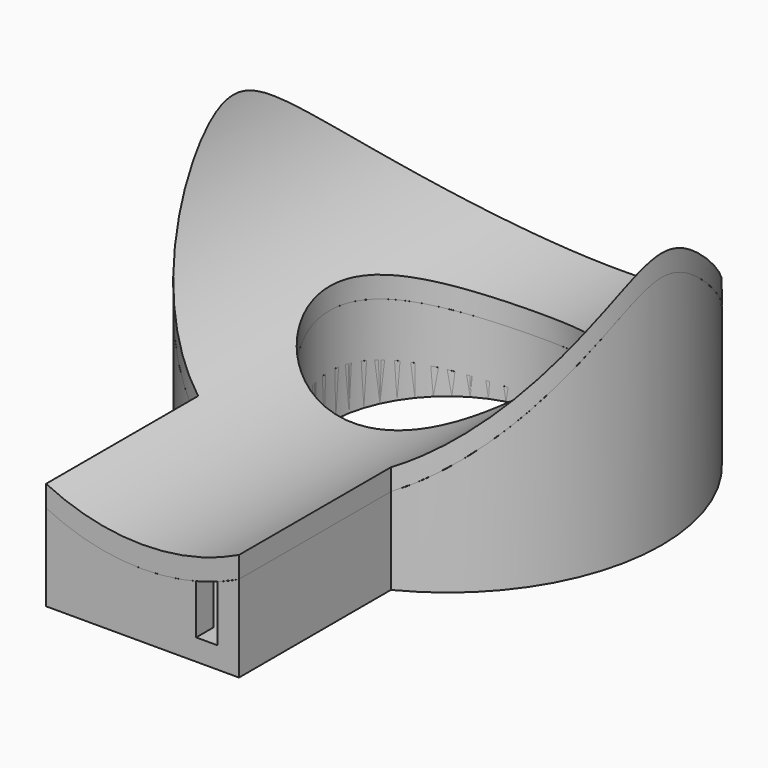
from build123d import *

# Parameters (mm, degrees)
SKETCH_R             = 20
PAD_DEPTH            = 30
SKETCH001_R          = 18
POCKET_DEPTH         = 40
POCKET001_DEPTH      = 20.001
POCKET001_DEPTH_BACK = 20.001
SKETCH014_W          = 14
SKETCH014_H          = 7.569522
POCKET010_DEPTH      = 6
SKETCH005_R          = 13
PAD002_DEPTH         = 30
POCKET003_DEPTH      = 13.001
POCKET003_DEPTH_BACK = 13.001
SKETCH007_R          = 11
POCKET004_DEPTH      = 10.650133
SKETCH003_R          = 18
PAD001_DEPTH         = 30
POCKET002_DEPTH      = 18.001
POCKET002_DEPTH_BACK = 18.001
SKETCH008_R          = 11
POCKET005_DEPTH      = 11.690292
SKETCH009_W          = 18
SKETCH009_H          = 20
PAD003_DEPTH         = 9
SKETCH010_W          = 14
SKETCH010_H          = 17
POCKET006_DEPTH      = 7
POCKET007_DEPTH      = 21
SKETCH012_W          = 14
SKETCH012_H          = 7.424547
POCKET008_DEPTH      = 25
SKETCH013_R          = 18
POCKET009_DEPTH      = 7
SKETCH021_W          = 2
SKETCH021_H          = 8
POCKET015_DEPTH      = 5
PAD004_DEPTH         = 36
POCKET011_DEPTH      = 36
SKETCH017_R          = 11
POCKET012_DEPTH      = 24.001
POCKET013_DEPTH      = 25
SKETCH019_W          = 20
SKETCH019_H          = 5
POCKET014_DEPTH      = 15
PAD005_DEPTH         = 1


with BuildPart() as base_cylinder_external:
    # Sketch → Pad (new body)
    with BuildSketch(Plane.XY):
        Circle(SKETCH_R)
    extrude(amount=PAD_DEPTH)

    # Sketch001 → Pocket (cut)
    with BuildSketch(Plane.XY):
        Circle(SKETCH001_R)
    extrude(amount=POCKET_DEPTH, mode=Mode.SUBTRACT)

    # Sketch002 → Pocket001 (cut, two sides)
    with BuildSketch(Plane.XZ) as pocket001_sk:
        with BuildLine():
            Line((-20, 22), (-20, 32))
            Line((-20, 32), (20, 32))
            Line((20, 32), (20, 22))
            ThreePointArc((-20, 22), (0, 6), (20, 22))
        make_face()
    extrude(amount=-POCKET001_DEPTH, mode=Mode.SUBTRACT)
    extrude(pocket001_sk.sketch, amount=POCKET001_DEPTH_BACK, mode=Mode.SUBTRACT)

    # Sketch014 → Pocket010 (cut)
    with BuildSketch(Plane.XZ.offset(22)):
        with Locations((0, 5.784761)):
            Rectangle(SKETCH014_W, SKETCH014_H)
    extrude(amount=-POCKET010_DEPTH, mode=Mode.SUBTRACT)


with BuildPart() as base_cylinder_internal:
    # Sketch005 → Pad002 (new body)
    with BuildSketch(Plane.XY):
        Circle(SKETCH005_R)
    extrude(amount=PAD002_DEPTH)

    # Sketch006 → Pocket003 (cut, two sides)
    with BuildSketch(Plane.XZ) as pocket003_sk:
        with BuildLine():
            Line((-20, 22), (-20, 32))
            Line((-20, 32), (20, 32))
            Line((20, 32), (20, 22))
            ThreePointArc((-20, 22), (0, 6), (20, 22))
        make_face()
    extrude(amount=-POCKET003_DEPTH, mode=Mode.SUBTRACT)
    extrude(pocket003_sk.sketch, amount=POCKET003_DEPTH_BACK, mode=Mode.SUBTRACT)

    # Sketch007 → Pocket004 (cut, through all)
    with BuildSketch(Plane.XY):
        Circle(SKETCH007_R)
    extrude(amount=POCKET004_DEPTH, mode=Mode.SUBTRACT)


with BuildPart() as base_cylinder_intermediate:
    # Sketch003 → Pad001 (new body)
    with BuildSketch(Plane.XY):
        Circle(SKETCH003_R)
    extrude(amount=PAD001_DEPTH)

    # Sketch004 → Pocket002 (cut, two sides)
    with BuildSketch(Plane.XZ) as pocket002_sk:
        with BuildLine():
            Line((-20, 17), (-20, 32))
            Line((-20, 32), (20, 32))
            Line((20, 32), (20, 17))
            ThreePointArc((-20, 17), (0, 1), (20, 17))
        make_face()
    extrude(amount=-POCKET002_DEPTH, mode=Mode.SUBTRACT)
    extrude(pocket002_sk.sketch, amount=POCKET002_DEPTH_BACK, mode=Mode.SUBTRACT)

    # Sketch008 → Pocket005 (cut, through all)
    with BuildSketch(Plane.XY):
        Circle(SKETCH008_R)
    extrude(amount=POCKET005_DEPTH, mode=Mode.SUBTRACT)


with BuildPart() as base_box:
    # Sketch009 → Pad003 (new body)
    with BuildSketch(Plane.XY):
        with Locations((0, -25.588457)):
            Rectangle(SKETCH009_W, SKETCH009_H)
    extrude(amount=PAD003_DEPTH)

    # Sketch010 → Pocket006 (cut)
    with BuildSketch(Plane.XY.offset(2)):
        with Locations((0, -25.083124)):
            Rectangle(SKETCH010_W, SKETCH010_H)
    extrude(amount=POCKET006_DEPTH, mode=Mode.SUBTRACT)

    # Sketch011 → Pocket007 (cut)
    with BuildSketch(Plane.XZ.offset(15)):
        with BuildLine():
            Line((-20, 22), (-20, 32))
            Line((-20, 32), (20, 32))
            Line((20, 32), (20, 22))
            ThreePointArc((-20, 22), (0, 6), (20, 22))
        make_face()
    extrude(amount=POCKET007_DEPTH, mode=Mode.SUBTRACT)

    # Sketch012 → Pocket008 (cut)
    with BuildSketch(Plane.XZ.offset(33)):
        with Locations((0, 5.712274)):
            Rectangle(SKETCH012_W, SKETCH012_H)
    extrude(amount=-POCKET008_DEPTH, mode=Mode.SUBTRACT)

    # Sketch013 → Pocket009 (cut)
    with BuildSketch(Plane.XY.offset(9)):
        Circle(SKETCH013_R)
    extrude(amount=-POCKET009_DEPTH, mode=Mode.SUBTRACT)

    # Sketch021 → Pocket015 (cut)
    with BuildSketch(Plane.XZ.offset(37)):
        with Locations((6, 6)):
            Rectangle(SKETCH021_W, SKETCH021_H)
    extrude(amount=-POCKET015_DEPTH, mode=Mode.SUBTRACT)


with BuildPart() as top:
    # Sketch015 → Pad004 (new body, symmetric)
    with BuildSketch(Plane.XZ):
        with BuildLine():
            Line((-20, 22), (-20, 32))
            Line((-20, 32), (20, 32))
            Line((20, 32), (20, 22))
            ThreePointArc((-20, 22), (0, 6), (20, 22))
        make_face()
    extrude(amount=PAD004_DEPTH, both=True)

    # Sketch016 → Pocket011 (cut, symmetric)
    with BuildSketch(Plane.XZ):
        with BuildLine():
            Line((-20, 24), (-20, 34))
            Line((-20, 34), (20, 34))
            Line((20, 34), (20, 24))
            ThreePointArc((-20, 24), (0, 8), (20, 24))
        make_face()
    extrude(amount=POCKET011_DEPTH, both=True, mode=Mode.SUBTRACT)

    # Sketch017 → Pocket012 (cut, through all)
    with BuildSketch(Plane.XY):
        Circle(SKETCH017_R)
    extrude(amount=POCKET012_DEPTH, mode=Mode.SUBTRACT)

    # Sketch018 → Pocket013 (cut)
    with BuildSketch(Plane.XY):
        with BuildLine():
            Line((9, -38.955163), (9, -17.860571))
            ThreePointArc((9, -17.860571), (0, 20), (-9, -17.860571))
            Line((-9, -38.955163), (-9, -17.860571))
            Line((-9, -38.955163), (-27, -38.955163))
            Line((-27, -38.955163), (-27, 41.044837))
            Line((-27, 41.044837), (27, 41.044837))
            Line((27, 41.044837), (27, -38.955163))
            Line((27, -38.955163), (9, -38.955163))
        make_face()
    extrude(amount=POCKET013_DEPTH, mode=Mode.SUBTRACT)

    # Sketch019 → Pocket014 (cut)
    with BuildSketch(Plane.XY):
        with Locations((0, -38.1)):
            Rectangle(SKETCH019_W, SKETCH019_H)
    extrude(amount=POCKET014_DEPTH, mode=Mode.SUBTRACT)

    # Sketch020 → Pad005 (join)
    with BuildSketch(Plane.XY.offset(7)):
        Polygon((-6.8, -20.975668), (-6.8, -33.5), (6.8, -33.5), (6.8, -20.975668), (5.8, -20.975668), (5.8, -32.5), (-5.8, -32.5), (-5.8, -20.975668), align=None)
    extrude(amount=-PAD005_DEPTH)


solid = Compound([base_cylinder_external.part, base_cylinder_internal.part, base_cylinder_intermediate.part, base_box.part, top.part])
